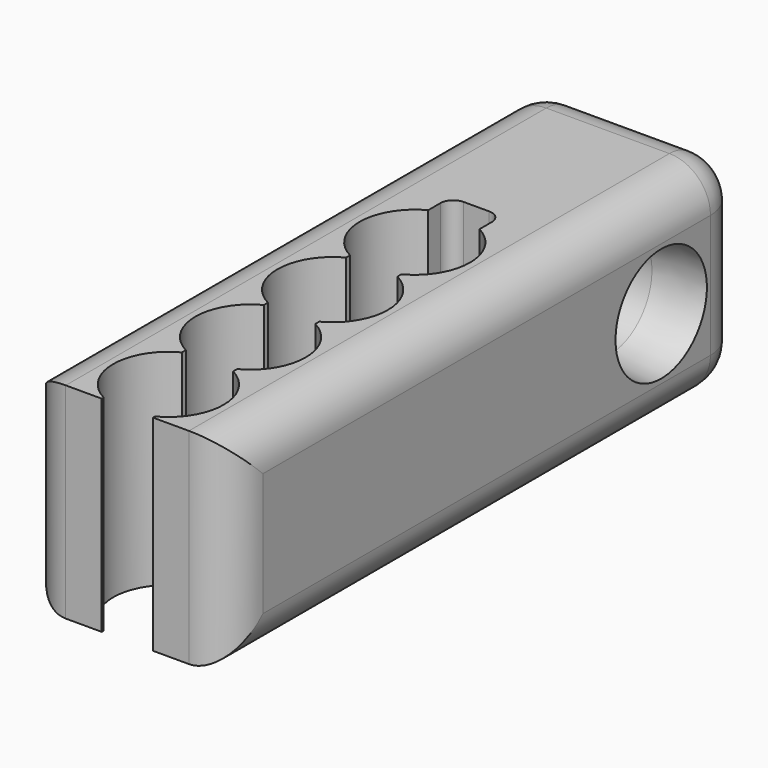
from build123d import *

# Parameters (mm, degrees)
F1_DEPTH = 8
F2_R     = 2.05
F3_DEPTH = 8.001
F4_R     = 1.6
F5_R     = 0.5
F6_SIZE2 = 0.1749773271
F6_SIZE  = 2


with BuildPart() as f1:
    # F0 (on Top) → F1 (new body)
    with BuildSketch(Plane.XY):
        Polygon((1, -4), (4, -4), (4, 4), (-4, 4), (-4, -4), (-1, -4), align=None)
        with BuildLine():
            Line((-1, -5.0967133689), (-1, -4))
            Line((-1, -4), (-4, -4))
            Line((-4, -4), (-4, -21))
            Line((-4, -21), (-1, -21))
            Line((-1, -21), (-1, -20.9032866311))
            ThreePointArc((-1, -20.9032866311), (-2.15, -19), (-1, -17.0967133689))
            Line((-1, -17.0967133689), (-1, -16.9032866311))
            ThreePointArc((-1, -16.9032866311), (-2.15, -15), (-1, -13.0967133689))
            Line((-1, -13.0967133689), (-1, -12.9032866311))
            ThreePointArc((-1, -12.9032866311), (-2.15, -11), (-1, -9.0967133689))
            Line((-1, -9.0967133689), (-1, -8.9032866311))
            ThreePointArc((-1, -8.9032866311), (-2.15, -7), (-1, -5.0967133689))
        make_face()
        with BuildLine():
            Line((4, -21), (4, -4))
            Line((4, -4), (1, -4))
            Line((1, -4), (1, -5.0967133689))
            ThreePointArc((1, -5.0967133689), (1.840176622, -5.8881322021), (2.15, -7))
            ThreePointArc((2.15, -7), (1.840176622, -8.1118677979), (1, -8.9032866311))
            Line((1, -8.9032866311), (1, -9.0967133689))
            ThreePointArc((1, -9.0967133689), (1.840176622, -9.8881322021), (2.15, -11))
            ThreePointArc((2.15, -11), (1.840176622, -12.1118677979), (1, -12.9032866311))
            Line((1, -12.9032866311), (1, -13.0967133689))
            ThreePointArc((1, -13.0967133689), (1.840176622, -13.8881322021), (2.15, -15))
            ThreePointArc((2.15, -15), (1.840176622, -16.1118677979), (1, -16.9032866311))
            Line((1, -16.9032866311), (1, -17.0967133689))
            ThreePointArc((1, -17.0967133689), (1.840176622, -17.8881322021), (2.15, -19))
            ThreePointArc((2.15, -19), (1.840176622, -20.1118677979), (1, -20.9032866311))
            Line((1, -20.9032866311), (1, -21))
            Line((1, -21), (4, -21))
        make_face()
    extrude(amount=F1_DEPTH)

    # F2 (on face) → F3 (cut, through all)
    with BuildSketch(Plane(origin=(-4, 0, 0), x_dir=(0, -1, 0), z_dir=(-1, 0, 0))):
        with Locations((0, 4)):
            Circle(F2_R)
    extrude(amount=-F3_DEPTH, mode=Mode.SUBTRACT)

    # F4
    f4_edges = [f1.edges().sort_by_distance(p)[0] for p in [
        (4, -8.5, 8),
        (4, -8.5, 0),
        (4, 4, 4),
        (4, -21, 4),
        (-4, -21, 4),
        (-4, -8.5, 8),
        (-4, -8.5, 0),
        (-4, 4, 4),
        (0, 4, 8),
        (0, 4, 0),
    ]]
    fillet(f4_edges, radius=F4_R)

    # F5
    f5_edges = [f1.edges().sort_by_distance(p)[0] for p in [
        (1, -4, 4),
        (-1, -4, 4),
    ]]
    fillet(f5_edges, radius=F5_R)

    # F6
    f6_edges = [f1.edges().sort_by_distance(p)[0] for p in [
        (-4, 2.05, 4),
        (4, 2.05, 4),
    ]]
    f6_side = f1.faces().sort_by_distance((0, 2.05, 4))[0]
    chamfer(f6_edges, length=F6_SIZE, length2=F6_SIZE2, reference=f6_side)


solid = f1.part
